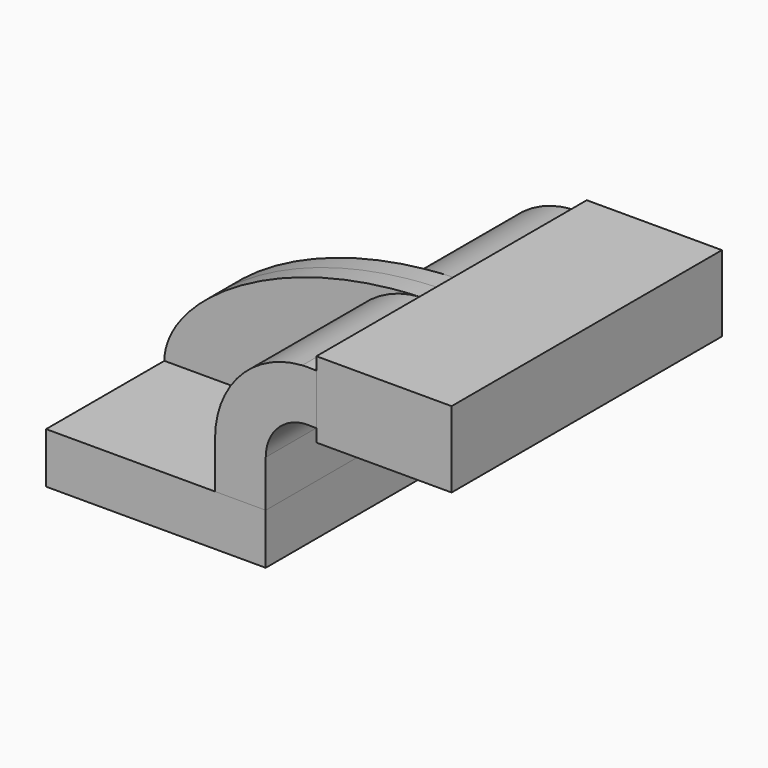
from build123d import *

# Parameters (mm, degrees)
F1_DEPTH = 63.5
F2_DEPTH = 63.5
F3_DEPTH = 63.5
F4_DEPTH = 7.9375


with BuildPart() as f1:
    # F0 (on Front) → F1 (new body, symmetric)
    with BuildSketch(Plane.XZ):
        Polygon((41.275, -9.525), (41.275, 9.525), (22.225, 9.525), (-41.275, 9.525), (-41.275, -9.525), align=None)
    extrude(amount=F1_DEPTH, both=True)


with BuildPart() as f2:
    # F0 (on Front) → F2 (new body, symmetric)
    with BuildSketch(Plane.XZ):
        Polygon((60.325, 61.9252), (60.325, 42.8752), (60.325, 38.1), (111.125, 38.1), (111.125, 66.675), (60.325, 66.675), align=None)
    extrude(amount=F2_DEPTH, both=True)


with BuildPart() as f3:
    # F0 (on Front) → F3 (new body, symmetric)
    with BuildSketch(Plane.XZ):
        with BuildLine():
            Line((22.225, 9.525), (41.275, 9.525))
            Line((41.275, 9.525), (41.275, 27.065663))
            ThreePointArc((41.275, 27.065663), (46.445971, 38.789118), (58.590198, 42.8752))
            Line((58.590198, 42.8752), (60.325, 42.8752))
            Line((60.325, 42.8752), (60.325, 61.9252))
            Line((60.325, 61.9252), (59.287362, 61.9252))
            ThreePointArc((59.287362, 61.9252), (57.15, 61.990663), (55.012638, 61.9252))
            ThreePointArc((55.012638, 61.9252), (31.709845, 50.993766), (22.225, 27.065663))
            Line((22.225, 27.065663), (22.225, 9.525))
        make_face()
    extrude(amount=F3_DEPTH, both=True)


with BuildPart() as f4:
    # F0 (on Front) → F4 (new body, symmetric)
    with BuildSketch(Plane.XZ):
        with BuildLine():
            Line((-41.275, 9.525), (22.225, 9.525))
            Line((22.225, 9.525), (22.225, 27.065663))
            ThreePointArc((22.225, 27.065663), (31.709845, 50.993766), (55.012638, 61.9252))
            add(Edge.make_bspline(
                [(-41.275, 9.525), (-41.051786, 31.264443), (0, 59.951846), (55.012638, 61.9252)],
                knots=[0, 0, 0, 0, 109.622489, 109.622489, 109.622489, 109.622489], degree=3))
        make_face()
    extrude(amount=F4_DEPTH, both=True)


solid = Compound([f1.part, f2.part, f3.part, f4.part])
